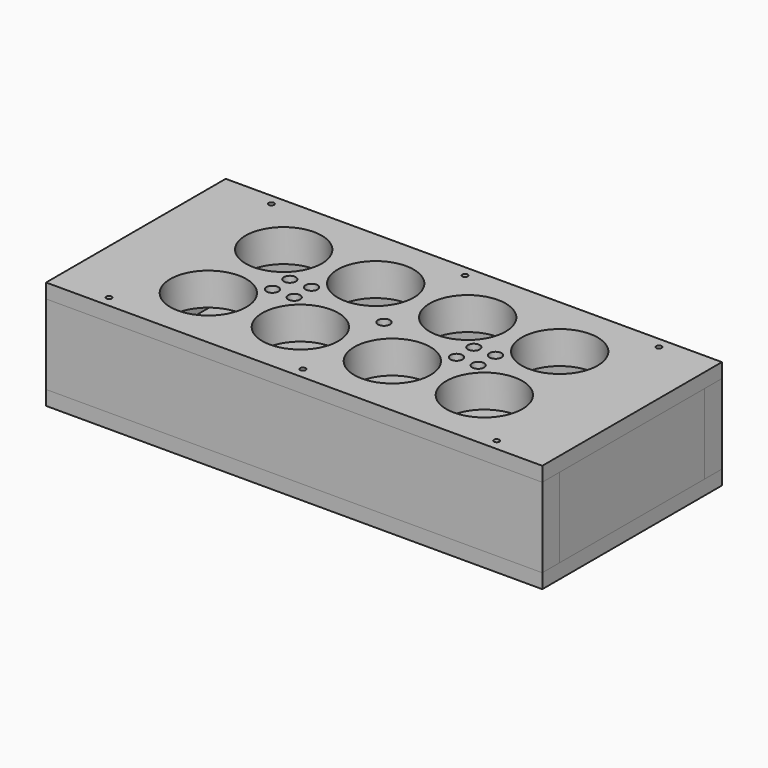
from build123d import *

# Parameters (mm, degrees)
SKETCH001_W          = 274
SKETCH001_H          = 124
PAD_DEPTH            = 18
SKETCH_R             = 21
POCKET_DEPTH         = 0.001
POCKET_DEPTH_BACK    = -18.001
SKETCH002_R          = 21
POCKET001_DEPTH      = 0.001
POCKET001_DEPTH_BACK = -18.001
SKETCH003_R          = 21
POCKET002_DEPTH      = 0.001
POCKET002_DEPTH_BACK = -18.001
SKETCH004_R          = 21
POCKET003_DEPTH      = 0.001
POCKET003_DEPTH_BACK = -18.001
SKETCH005_R          = 21
POCKET004_DEPTH      = 0.001
POCKET004_DEPTH_BACK = -18.001
SKETCH006_R          = 21
POCKET005_DEPTH      = 0.001
POCKET005_DEPTH_BACK = -18.001
SKETCH007_R          = 21
POCKET006_DEPTH      = 0.001
POCKET006_DEPTH_BACK = -18.001
SKETCH008_R          = 21
POCKET007_DEPTH      = 0.001
POCKET007_DEPTH_BACK = -18.001
SKETCH009_R          = 3.3
POCKET008_DEPTH      = 0.001
POCKET008_DEPTH_BACK = -18.001
SKETCH010_R          = 3.3
POCKET009_DEPTH      = 0.001
POCKET009_DEPTH_BACK = -18.001
SKETCH011_R          = 3.3
POCKET010_DEPTH      = 0.001
POCKET010_DEPTH_BACK = -18.001
SKETCH012_R          = 3.3
POCKET011_DEPTH      = 0.001
POCKET011_DEPTH_BACK = -18.001
SKETCH013_R          = 3.3
POCKET012_DEPTH      = 0.001
POCKET012_DEPTH_BACK = -18.001
SKETCH014_R          = 3.3
POCKET013_DEPTH      = 0.001
POCKET013_DEPTH_BACK = -18.001
SKETCH015_R          = 3.3
POCKET014_DEPTH      = 0.001
POCKET014_DEPTH_BACK = -18.001
SKETCH016_R          = 3.3
POCKET015_DEPTH      = 0.001
POCKET015_DEPTH_BACK = -18.001
SKETCH017_R          = 3.3
POCKET016_DEPTH      = 0.001
POCKET016_DEPTH_BACK = -18.001
SKETCH018_W          = 274
SKETCH018_H          = 124
SKETCH018_W_2        = 250
SKETCH018_H_2        = 100
POCKET017_DEPTH      = 10
SKETCH019_R          = 1.5
POCKET018_DEPTH      = 0.001
POCKET018_DEPTH_BACK = -18.001
SKETCH020_R          = 1.5
POCKET019_DEPTH      = 0.001
POCKET019_DEPTH_BACK = -18.001
SKETCH021_R          = 1.5
POCKET020_DEPTH      = 0.001
POCKET020_DEPTH_BACK = -18.001
SKETCH022_R          = 1.5
POCKET021_DEPTH      = 0.001
POCKET021_DEPTH_BACK = -18.001
SKETCH023_R          = 1.5
POCKET022_DEPTH      = 0.001
POCKET022_DEPTH_BACK = -18.001
SKETCH024_R          = 1.5
POCKET023_DEPTH      = 0.001
POCKET023_DEPTH_BACK = -18.001
SKETCH025_W          = 274
SKETCH025_H          = 124
PAD001_DEPTH         = 12
SKETCH026_W          = 274
SKETCH026_H          = 124
SKETCH026_W_2        = 250
SKETCH026_H_2        = 100
POCKET024_DEPTH      = 2
SKETCH027_W          = 12
SKETCH027_H          = 100
PAD002_DEPTH         = 22
SKETCH028_W          = 12
SKETCH028_H          = 100
PAD003_DEPTH         = 22
SKETCH029_W          = 274
SKETCH029_H          = 12
PAD004_DEPTH         = 22
SKETCH030_W          = 274
SKETCH030_H          = 12
PAD005_DEPTH         = 44


with BuildPart() as top_body:
    # Sketch001 → Pad (new body)
    with BuildSketch(Plane.XY):
        with Locations((137, -62)):
            Rectangle(SKETCH001_W, SKETCH001_H)
    extrude(amount=PAD_DEPTH)

    # Sketch → Pocket (cut, two sides)
    with BuildSketch(Plane.XY) as pocket_sk:
        with Locations((60.8, -35.99)):
            Circle(SKETCH_R)
    extrude(amount=-POCKET_DEPTH, mode=Mode.SUBTRACT)
    extrude(pocket_sk.sketch, amount=-POCKET_DEPTH_BACK, mode=Mode.SUBTRACT)

    # Sketch002 → Pocket001 (cut, two sides)
    with BuildSketch(Plane.XY) as pocket001_sk:
        with Locations((111.6, -35.99)):
            Circle(SKETCH002_R)
    extrude(amount=-POCKET001_DEPTH, mode=Mode.SUBTRACT)
    extrude(pocket001_sk.sketch, amount=-POCKET001_DEPTH_BACK, mode=Mode.SUBTRACT)

    # Sketch003 → Pocket002 (cut, two sides)
    with BuildSketch(Plane.XY) as pocket002_sk:
        with Locations((162.4, -35.99)):
            Circle(SKETCH003_R)
    extrude(amount=-POCKET002_DEPTH, mode=Mode.SUBTRACT)
    extrude(pocket002_sk.sketch, amount=-POCKET002_DEPTH_BACK, mode=Mode.SUBTRACT)

    # Sketch004 → Pocket003 (cut, two sides)
    with BuildSketch(Plane.XY) as pocket003_sk:
        with Locations((213.2, -35.99)):
            Circle(SKETCH004_R)
    extrude(amount=-POCKET003_DEPTH, mode=Mode.SUBTRACT)
    extrude(pocket003_sk.sketch, amount=-POCKET003_DEPTH_BACK, mode=Mode.SUBTRACT)

    # Sketch005 → Pocket004 (cut, two sides)
    with BuildSketch(Plane.XY) as pocket004_sk:
        with Locations((60.8, -88.01)):
            Circle(SKETCH005_R)
    extrude(amount=-POCKET004_DEPTH, mode=Mode.SUBTRACT)
    extrude(pocket004_sk.sketch, amount=-POCKET004_DEPTH_BACK, mode=Mode.SUBTRACT)

    # Sketch006 → Pocket005 (cut, two sides)
    with BuildSketch(Plane.XY) as pocket005_sk:
        with Locations((111.6, -88.01)):
            Circle(SKETCH006_R)
    extrude(amount=-POCKET005_DEPTH, mode=Mode.SUBTRACT)
    extrude(pocket005_sk.sketch, amount=-POCKET005_DEPTH_BACK, mode=Mode.SUBTRACT)

    # Sketch007 → Pocket006 (cut, two sides)
    with BuildSketch(Plane.XY) as pocket006_sk:
        with Locations((162.4, -88.01)):
            Circle(SKETCH007_R)
    extrude(amount=-POCKET006_DEPTH, mode=Mode.SUBTRACT)
    extrude(pocket006_sk.sketch, amount=-POCKET006_DEPTH_BACK, mode=Mode.SUBTRACT)

    # Sketch008 → Pocket007 (cut, two sides)
    with BuildSketch(Plane.XY) as pocket007_sk:
        with Locations((213.2, -88.01)):
            Circle(SKETCH008_R)
    extrude(amount=-POCKET007_DEPTH, mode=Mode.SUBTRACT)
    extrude(pocket007_sk.sketch, amount=-POCKET007_DEPTH_BACK, mode=Mode.SUBTRACT)

    # Sketch009 → Pocket008 (cut, two sides)
    with BuildSketch(Plane.XY) as pocket008_sk:
        with Locations((80.2, -56)):
            Circle(SKETCH009_R)
    extrude(amount=-POCKET008_DEPTH, mode=Mode.SUBTRACT)
    extrude(pocket008_sk.sketch, amount=-POCKET008_DEPTH_BACK, mode=Mode.SUBTRACT)

    # Sketch010 → Pocket009 (cut, two sides)
    with BuildSketch(Plane.XY) as pocket009_sk:
        with Locations((92.2, -56)):
            Circle(SKETCH010_R)
    extrude(amount=-POCKET009_DEPTH, mode=Mode.SUBTRACT)
    extrude(pocket009_sk.sketch, amount=-POCKET009_DEPTH_BACK, mode=Mode.SUBTRACT)

    # Sketch011 → Pocket010 (cut, two sides)
    with BuildSketch(Plane.XY) as pocket010_sk:
        with Locations((181.8, -56)):
            Circle(SKETCH011_R)
    extrude(amount=-POCKET010_DEPTH, mode=Mode.SUBTRACT)
    extrude(pocket010_sk.sketch, amount=-POCKET010_DEPTH_BACK, mode=Mode.SUBTRACT)

    # Sketch012 → Pocket011 (cut, two sides)
    with BuildSketch(Plane.XY) as pocket011_sk:
        with Locations((193.8, -56)):
            Circle(SKETCH012_R)
    extrude(amount=-POCKET011_DEPTH, mode=Mode.SUBTRACT)
    extrude(pocket011_sk.sketch, amount=-POCKET011_DEPTH_BACK, mode=Mode.SUBTRACT)

    # Sketch013 → Pocket012 (cut, two sides)
    with BuildSketch(Plane.XY) as pocket012_sk:
        with Locations((80.2, -68)):
            Circle(SKETCH013_R)
    extrude(amount=-POCKET012_DEPTH, mode=Mode.SUBTRACT)
    extrude(pocket012_sk.sketch, amount=-POCKET012_DEPTH_BACK, mode=Mode.SUBTRACT)

    # Sketch014 → Pocket013 (cut, two sides)
    with BuildSketch(Plane.XY) as pocket013_sk:
        with Locations((92.2, -68)):
            Circle(SKETCH014_R)
    extrude(amount=-POCKET013_DEPTH, mode=Mode.SUBTRACT)
    extrude(pocket013_sk.sketch, amount=-POCKET013_DEPTH_BACK, mode=Mode.SUBTRACT)

    # Sketch015 → Pocket014 (cut, two sides)
    with BuildSketch(Plane.XY) as pocket014_sk:
        with Locations((181.8, -68)):
            Circle(SKETCH015_R)
    extrude(amount=-POCKET014_DEPTH, mode=Mode.SUBTRACT)
    extrude(pocket014_sk.sketch, amount=-POCKET014_DEPTH_BACK, mode=Mode.SUBTRACT)

    # Sketch016 → Pocket015 (cut, two sides)
    with BuildSketch(Plane.XY) as pocket015_sk:
        with Locations((193.8, -68)):
            Circle(SKETCH016_R)
    extrude(amount=-POCKET015_DEPTH, mode=Mode.SUBTRACT)
    extrude(pocket015_sk.sketch, amount=-POCKET015_DEPTH_BACK, mode=Mode.SUBTRACT)

    # Sketch017 → Pocket016 (cut, two sides)
    with BuildSketch(Plane.XY) as pocket016_sk:
        with Locations((137, -62)):
            Circle(SKETCH017_R)
    extrude(amount=-POCKET016_DEPTH, mode=Mode.SUBTRACT)
    extrude(pocket016_sk.sketch, amount=-POCKET016_DEPTH_BACK, mode=Mode.SUBTRACT)

    # Sketch018 → Pocket017 (cut, symmetric)
    with BuildSketch(Plane.XY):
        with Locations((137, -62)):
            Rectangle(SKETCH018_W, SKETCH018_H)
        with Locations((137, -62)):
            Rectangle(SKETCH018_W_2, SKETCH018_H_2, mode=Mode.SUBTRACT)
    extrude(amount=POCKET017_DEPTH, both=True, mode=Mode.SUBTRACT)

    # Sketch019 → Pocket018 (cut, two sides)
    with BuildSketch(Plane.XY) as pocket018_sk:
        with Locations((30, -6)):
            Circle(SKETCH019_R)
    extrude(amount=-POCKET018_DEPTH, mode=Mode.SUBTRACT)
    extrude(pocket018_sk.sketch, amount=-POCKET018_DEPTH_BACK, mode=Mode.SUBTRACT)

    # Sketch020 → Pocket019 (cut, two sides)
    with BuildSketch(Plane.XY) as pocket019_sk:
        with Locations((137, -6)):
            Circle(SKETCH020_R)
    extrude(amount=-POCKET019_DEPTH, mode=Mode.SUBTRACT)
    extrude(pocket019_sk.sketch, amount=-POCKET019_DEPTH_BACK, mode=Mode.SUBTRACT)

    # Sketch021 → Pocket020 (cut, two sides)
    with BuildSketch(Plane.XY) as pocket020_sk:
        with Locations((244, -6)):
            Circle(SKETCH021_R)
    extrude(amount=-POCKET020_DEPTH, mode=Mode.SUBTRACT)
    extrude(pocket020_sk.sketch, amount=-POCKET020_DEPTH_BACK, mode=Mode.SUBTRACT)

    # Sketch022 → Pocket021 (cut, two sides)
    with BuildSketch(Plane.XY) as pocket021_sk:
        with Locations((30, -118)):
            Circle(SKETCH022_R)
    extrude(amount=-POCKET021_DEPTH, mode=Mode.SUBTRACT)
    extrude(pocket021_sk.sketch, amount=-POCKET021_DEPTH_BACK, mode=Mode.SUBTRACT)

    # Sketch023 → Pocket022 (cut, two sides)
    with BuildSketch(Plane.XY) as pocket022_sk:
        with Locations((137, -118)):
            Circle(SKETCH023_R)
    extrude(amount=-POCKET022_DEPTH, mode=Mode.SUBTRACT)
    extrude(pocket022_sk.sketch, amount=-POCKET022_DEPTH_BACK, mode=Mode.SUBTRACT)

    # Sketch024 → Pocket023 (cut, two sides)
    with BuildSketch(Plane.XY) as pocket023_sk:
        with Locations((244, -118)):
            Circle(SKETCH024_R)
    extrude(amount=-POCKET023_DEPTH, mode=Mode.SUBTRACT)
    extrude(pocket023_sk.sketch, amount=-POCKET023_DEPTH_BACK, mode=Mode.SUBTRACT)


with BuildPart() as top_body_1:
    # Body placement: moved
    add(top_body.part.moved(Location((0, 0, 42))))


with BuildPart() as bottom_body:
    # Sketch025 → Pad001 (new body)
    with BuildSketch(Plane.XY):
        with Locations((137, -62)):
            Rectangle(SKETCH025_W, SKETCH025_H)
    extrude(amount=PAD001_DEPTH)

    # Sketch026 → Pocket024 (cut, symmetric)
    with BuildSketch(Plane.XY.offset(10)):
        with Locations((137, -62)):
            Rectangle(SKETCH026_W, SKETCH026_H)
        with Locations((137, -62)):
            Rectangle(SKETCH026_W_2, SKETCH026_H_2, mode=Mode.SUBTRACT)
    extrude(amount=POCKET024_DEPTH, both=True, mode=Mode.SUBTRACT)


with BuildPart() as left_body:
    # Sketch027 → Pad002 (new body, symmetric)
    with BuildSketch(Plane.XY):
        with Locations((6, -50)):
            Rectangle(SKETCH027_W, SKETCH027_H)
    extrude(amount=PAD002_DEPTH, both=True)


with BuildPart() as left_body_1:
    # Body002 placement: moved
    add(left_body.part.moved(Location((0, -12, 30))))


with BuildPart() as right_body:
    # Sketch028 → Pad003 (new body, symmetric)
    with BuildSketch(Plane.XY):
        with Locations((6, -50)):
            Rectangle(SKETCH028_W, SKETCH028_H)
    extrude(amount=PAD003_DEPTH, both=True)


with BuildPart() as right_body_1:
    # Body003 placement: moved
    add(right_body.part.moved(Location((262, -12, 30))))


with BuildPart() as front_body:
    # Sketch029 → Pad004 (new body, symmetric)
    with BuildSketch(Plane.XY):
        with Locations((137, -6)):
            Rectangle(SKETCH029_W, SKETCH029_H)
    extrude(amount=PAD004_DEPTH, both=True)


with BuildPart() as front_body_1:
    # Body004 placement: moved
    add(front_body.part.moved(Location((0, 0, 30))))


with BuildPart() as rear_body:
    # Sketch030 → Pad005 (new body)
    with BuildSketch(Plane.XY):
        with Locations((137, -6)):
            Rectangle(SKETCH030_W, SKETCH030_H)
    extrude(amount=PAD005_DEPTH)


with BuildPart() as rear_body_1:
    # Body005 placement: moved
    add(rear_body.part.moved(Location((0, -112, 8))))


solid = Compound([top_body_1.part, bottom_body.part, left_body_1.part, right_body_1.part, front_body_1.part, rear_body_1.part])
